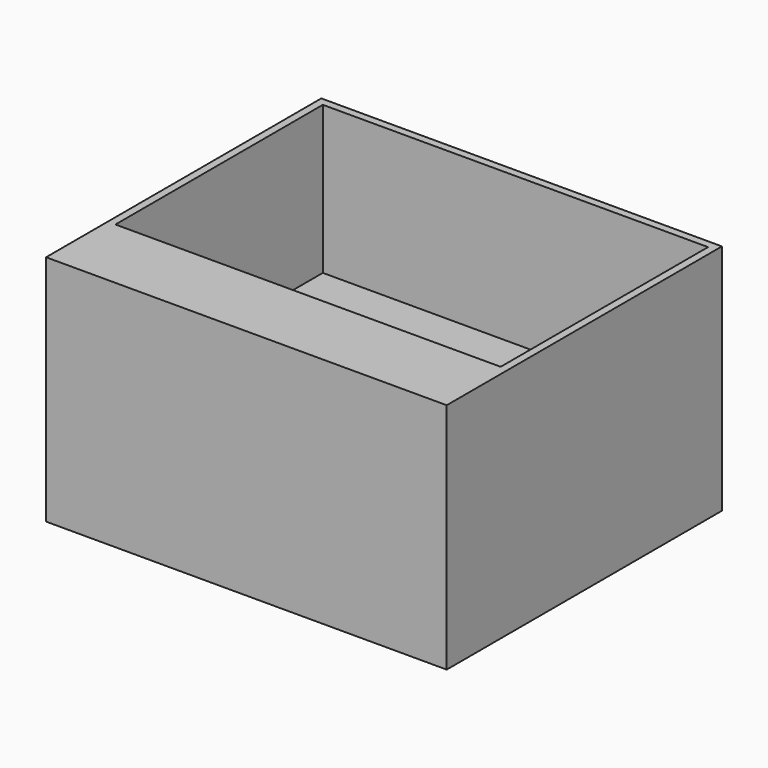
from build123d import *

# Parameters (mm, degrees)
F0_W     = 132.037088275
F0_H     = 113.3796721697
F1_DEPTH = 76.708
F2_T     = -2.54
F3_DEPTH = 25.4
F4_DEPTH = 25.4


with BuildPart() as f1:
    # F0 (on Top) → F1 (new body)
    with BuildSketch(Plane.XY):
        Rectangle(F0_W, F0_H)
    extrude(amount=F1_DEPTH)

    # F2
    f2_openings = [f1.faces().sort_by_distance(p)[0] for p in [
        (0, 0, 76.708),
    ]]
    offset(amount=F2_T, openings=f2_openings)

    # F3 (add): a face of the model
    f3_faces = [f1.faces().sort_by_distance(p)[0] for p in [
        (0, 0, 2.54),
    ]]
    extrude(f3_faces, amount=F3_DEPTH)

    # F4 (add): a face of the model
    f4_faces = [f1.faces().sort_by_distance(p)[0] for p in [
        (0, -56.6898360848, 38.354),
    ]]
    extrude(f4_faces, amount=-F4_DEPTH)


solid = f1.part
